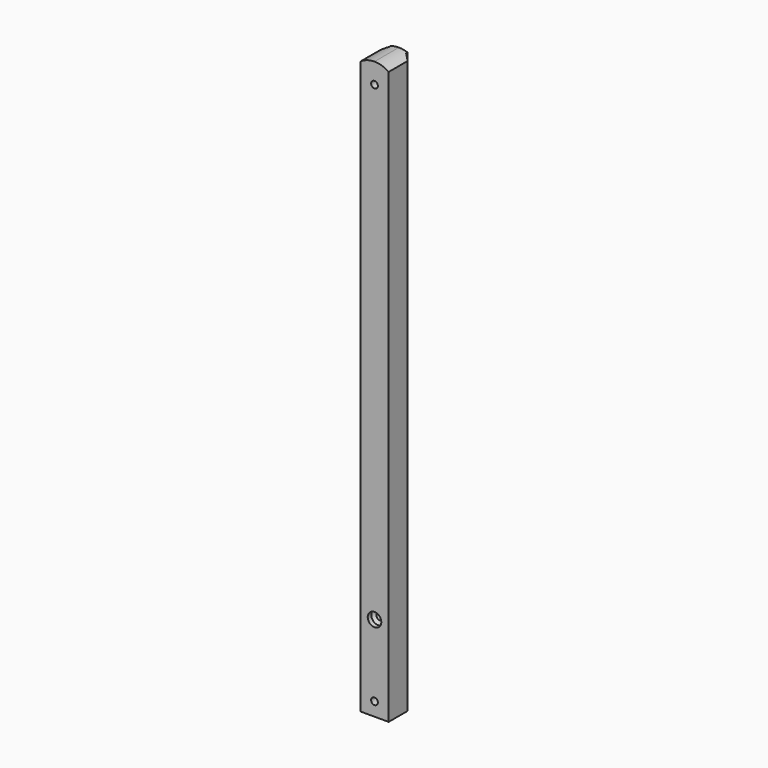
from build123d import *

# Parameters (mm, degrees)
F1_DEPTH = 510
F3_DEPTH = 27
F5_D     = 6
F7_D     = 12
F7_DEPTH = 4
F7_TIP   = 3.6051637142


with BuildPart() as f1:
    # F0 (on Top) → F1 (new body)
    with BuildSketch(Plane.XY):
        Polygon((-25, 0), (0, 0), (0, 21), (-5, 25.5), (-5, 27), (-20, 27), (-20, 25.5), (-25, 21), align=None)
    extrude(amount=F1_DEPTH)

    # F2 (on face) → F3 (cut)
    with BuildSketch(Plane.XZ):
        with BuildLine():
            ThreePointArc((-25, 506), (-19.0622023742, 508.9756324194), (-12.5, 510))
            Line((-12.5, 510), (-25, 510))
            Line((-25, 510), (-25, 506))
        make_face()
        with BuildLine():
            Line((0, 510), (-12.5, 510))
            ThreePointArc((-12.5, 510), (-5.9377976258, 508.9756324194), (0, 506))
            Line((0, 506), (0, 510))
        make_face()
    extrude(amount=-F3_DEPTH, mode=Mode.SUBTRACT)

    # F5 (through all)
    with Locations(Plane.XZ):
        with Locations((-12.5, 492), (-12.5, 12), (-12.5, 75.6)):
            Hole(F5_D / 2)

    # F7
    with Locations(Plane.XZ):
        with Locations((-12.5, 75.6)):
            Hole(F7_D / 2, depth=F7_DEPTH)
            with Locations((0, 0, -(F7_DEPTH + F7_TIP / 2))):  # 118° drill point
                Cone(0, F7_D / 2, F7_TIP, mode=Mode.SUBTRACT)


solid = f1.part
